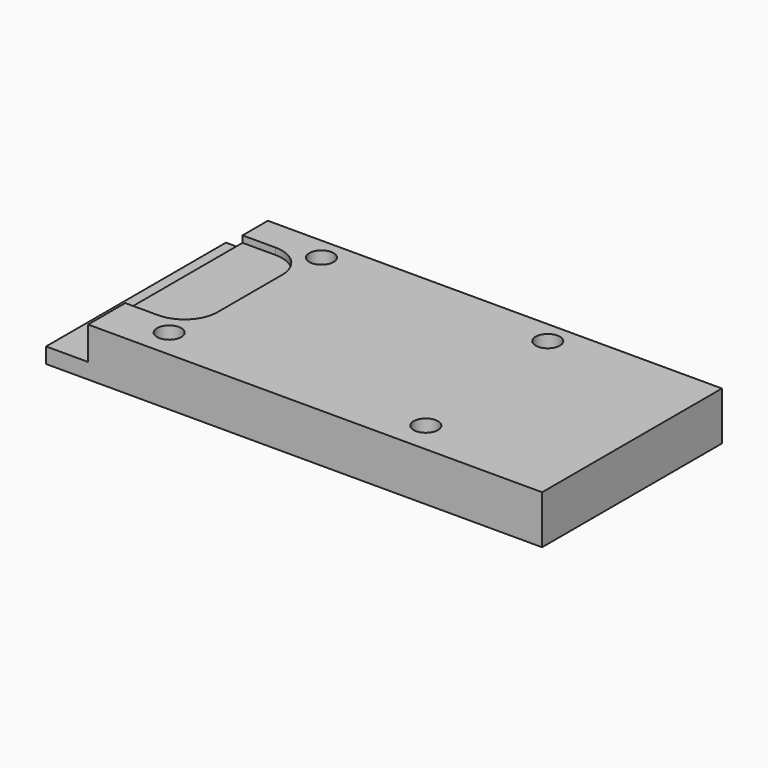
from build123d import *

# Parameters (mm, degrees)
F1_DEPTH = 3.048
F2_DEPTH = 8.2296
F0_R     = 2.3876
F3_DEPTH = 9.525
F4_R     = 4.699
F4_R_2   = 2.3876
F5_DEPTH = 6.5532


with BuildPart() as f1:
    # F0 (on Top) → F1 (new body)
    with BuildSketch(Plane.XY):
        Polygon((0, 44.196), (0, 0), (8.255, 0), (8.255, 9.144), (8.255, 37.973), (8.255, 44.196), align=None)
    extrude(amount=F1_DEPTH)

    # F0 (on Top) → F2 (join)
    with BuildSketch(Plane.XY):
        with BuildLine():
            Line((8.255, 37.973), (8.255, 9.144))
            Line((8.255, 9.144), (14.732, 9.144))
            ThreePointArc((14.732, 9.144), (19.311931, 11.041069), (21.209, 15.621))
            Line((21.209, 15.621), (21.209, 31.496))
            ThreePointArc((21.209, 31.496), (19.311931, 36.075931), (14.732, 37.973))
            Line((14.732, 37.973), (8.255, 37.973))
        make_face()
    extrude(amount=F2_DEPTH)

    # F0 (on Top) → F3 (join)
    with BuildSketch(Plane.XY):
        with BuildLine():
            Line((8.255, 9.144), (8.255, 0))
            Line((8.255, 0), (97.536, 0))
            Line((97.536, 0), (97.536, 44.196))
            Line((97.536, 44.196), (8.255, 44.196))
            Line((8.255, 44.196), (8.255, 37.973))
            Line((8.255, 37.973), (14.732, 37.973))
            ThreePointArc((14.732, 37.973), (19.311931, 36.075931), (21.209, 31.496))
            Line((21.209, 31.496), (21.209, 15.621))
            ThreePointArc((21.209, 15.621), (19.311931, 11.041069), (14.732, 9.144))
            Line((14.732, 9.144), (8.255, 9.144))
        make_face()
        with Locations((19.6596, 5.6896)):
            Circle(F0_R, mode=Mode.SUBTRACT)
        with Locations((69.7484, 6.146022)):
            Circle(F0_R, mode=Mode.SUBTRACT)
        with Locations((22.3266, 39.7764)):
            Circle(F0_R, mode=Mode.SUBTRACT)
        with Locations((66.8274, 39.7764)):
            Circle(F0_R, mode=Mode.SUBTRACT)
    extrude(amount=F3_DEPTH)

    # F4 (on face) → F5 (cut)
    with BuildSketch(Plane.XY):
        with Locations((69.7484, 6.146022)):
            Circle(F4_R)
        with Locations((19.6596, 5.6896)):
            Circle(F4_R)
        with BuildLine():
            Line((71.525994, 39.838142), (71.525994, 44.196))
            Line((71.525994, 44.196), (62.128806, 44.196))
            Line((62.128806, 44.196), (62.128806, 39.838142))
            ThreePointArc((62.128806, 39.838142), (66.8274, 35.0774), (71.525994, 39.838142))
        make_face()
        with Locations((66.8274, 39.7764)):
            Circle(F4_R_2, mode=Mode.SUBTRACT)
        with BuildLine():
            Line((27.016125, 44.196), (17.637075, 44.196))
            Line((17.637075, 44.196), (17.637075, 39.478143))
            ThreePointArc((17.637075, 39.478143), (22.3266, 35.0774), (27.016125, 39.478143))
            Line((27.016125, 39.478143), (27.016125, 44.196))
        make_face()
        with Locations((22.3266, 39.7764)):
            Circle(F4_R_2, mode=Mode.SUBTRACT)
    extrude(amount=F5_DEPTH, mode=Mode.SUBTRACT)


solid = f1.part
